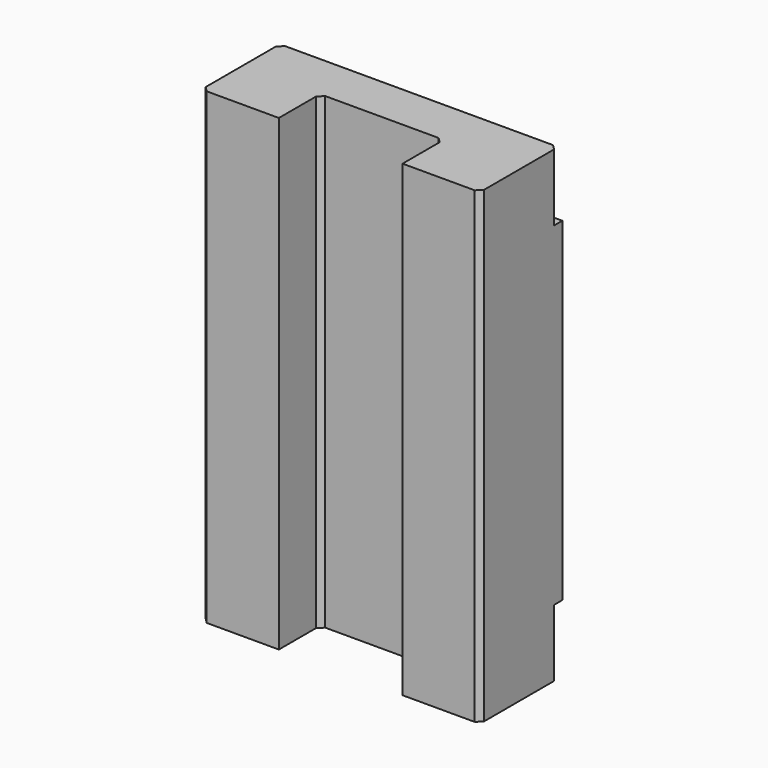
from build123d import *

# Parameters (mm, degrees)
SKETCH_W        = 27
SKETCH_H        = 10
PAD_DEPTH       = 45.400002
SKETCH001_W     = 12
SKETCH001_H     = 8
POCKET_DEPTH    = 45.401002
SKETCH002_R     = 1.5
POCKET001_DEPTH = 3.5
SKETCH003_W     = 33.371755
SKETCH003_H     = 8.604455
SKETCH003_H_2   = 8.227144
POCKET002_DEPTH = 0.5
CHAMFER_SIZE    = 0.5
CHAMFER001_SIZE = 0.5


with BuildPart() as part:
    # Sketch → Pad (new body)
    with BuildSketch(Plane.XY):
        with Locations((0, 8)):
            Rectangle(SKETCH_W, SKETCH_H)
    extrude(amount=PAD_DEPTH)

    # Sketch001 → Pocket (cut, through all)
    with BuildSketch(Plane.XY.offset(45.400002)):
        with Locations((0, 4)):
            Rectangle(SKETCH001_W, SKETCH001_H)
    extrude(amount=-POCKET_DEPTH, mode=Mode.SUBTRACT)

    # Sketch002 → Pocket001 (cut)
    with BuildSketch(Plane(origin=(0, 13, 0), x_dir=(-1, 0, 0), z_dir=(0, 1, 0))):
        with Locations((-10, 32.7)):
            Circle(SKETCH002_R)
        with Locations((10, 32.7)):
            Circle(SKETCH002_R)
        with Locations((10, 12.7)):
            Circle(SKETCH002_R)
        with Locations((-10, 12.7)):
            Circle(SKETCH002_R)
    extrude(amount=-POCKET001_DEPTH, mode=Mode.SUBTRACT)

    # Sketch003 → Pocket002 (cut)
    with BuildSketch(Plane(origin=(0, 13, 0), x_dir=(-1, 0, 0), z_dir=(0, 1, 0))):
        with Locations((0.455068, 43.202227)):
            Rectangle(SKETCH003_W, SKETCH003_H)
        with Locations((0.455068, 2.386428)):
            Rectangle(SKETCH003_W, SKETCH003_H_2)
    extrude(amount=-POCKET002_DEPTH, mode=Mode.SUBTRACT)

    # Chamfer
    chamfer_edges = [part.edges().sort_by_distance(p)[0] for p in [
        (13.5, 12.5, 3.25),
        (13.5, 3, 22.700001),
        (-13.5, 12.5, 3.25),
        (-13.5, 3, 22.700001),
        (-13.5, 12.5, 42.150001),
        (13.5, 12.5, 42.150001),
    ]]
    chamfer(chamfer_edges, length=CHAMFER_SIZE)

    # Chamfer001
    chamfer001_edges = [part.edges().sort_by_distance(p)[0] for p in [
        (-6, 8, 22.700001),
        (6, 8, 22.700001),
    ]]
    chamfer(chamfer001_edges, length=CHAMFER001_SIZE)


solid = part.part
